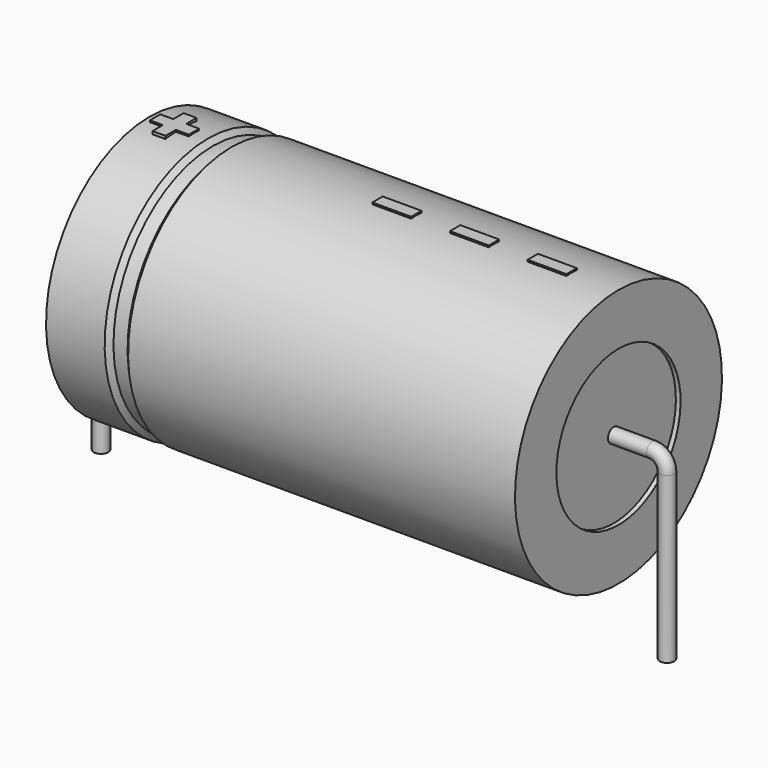
from build123d import *

# Parameters (mm, degrees)
SKETCH_R    = 0.45
SKETCH004_W = 2.4
SKETCH004_H = 0.8
PAD_DEPTH   = 8.08


with BuildPart() as sweep_body:
    # Sweep: sweep along a path in Sketch001
    with BuildLine(Plane.XZ) as sweep_path:
        Line((0, -3), (0, 7.2))
        ThreePointArc((0, 7.2), (0.2636, 7.836392), (0.899988, 8.1))
        Line((0.899988, 8.1), (34.1, 8.1))
        ThreePointArc((34.1, 8.1), (34.736396, 7.836396), (35, 7.2))
        Line((35, 7.2), (35, -3))
    # Sketch → Sweep (sweep)
    with BuildSketch(Plane.XY.offset(-2)):
        Circle(SKETCH_R)
    sweep(path=sweep_path.line)


with BuildPart() as revolution:
    # Sketch002 → Revolution (revolve)
    with BuildSketch(Plane.XZ):
        Polygon((3, 16.1), (3, 12.9), (32, 12.9), (32, 16.1), (8.075, 16.1), (7.785, 15.78), (6.915, 15.78), (6.625, 16.1), align=None)
    revolve(axis=Axis((6.97588, 0, 8.1), (1, 0, 0)))


with BuildPart() as revolution001:
    # Sketch003 → Revolution001 (revolve)
    with BuildSketch(Plane.XZ):
        Polygon((3.29, 15.78), (4.74, 15.78), (4.74, 8.9), (30.26, 8.9), (30.26, 15.78), (31.71, 15.78), (31.71, 8.1), (3.29, 8.1), align=None)
    revolve(axis=Axis((6.97588, 0, 8.1), (1, 0, 0)))


with BuildPart() as pad:
    # Sketch004 → Pad (new body)
    with BuildSketch(Plane.XY.offset(8.1)):
        with Locations((27.9, 0)):
            Rectangle(SKETCH004_W, SKETCH004_H)
        with Locations((23.1, 0)):
            Rectangle(SKETCH004_W, SKETCH004_H)
        with Locations((18.3, 0)):
            Rectangle(SKETCH004_W, SKETCH004_H)
        Polygon((4.148, 0.4), (3.348, 0.4), (3.348, -0.4), (4.148, -0.4), (4.148, -1.2), (4.948, -1.2), (4.948, -0.4), (5.748, -0.4), (5.748, 0.4), (4.948, 0.4), (4.948, 1.2), (4.148, 1.2), align=None)
    extrude(amount=PAD_DEPTH)


solid = Compound([sweep_body.part, revolution.part, revolution001.part, pad.part])
